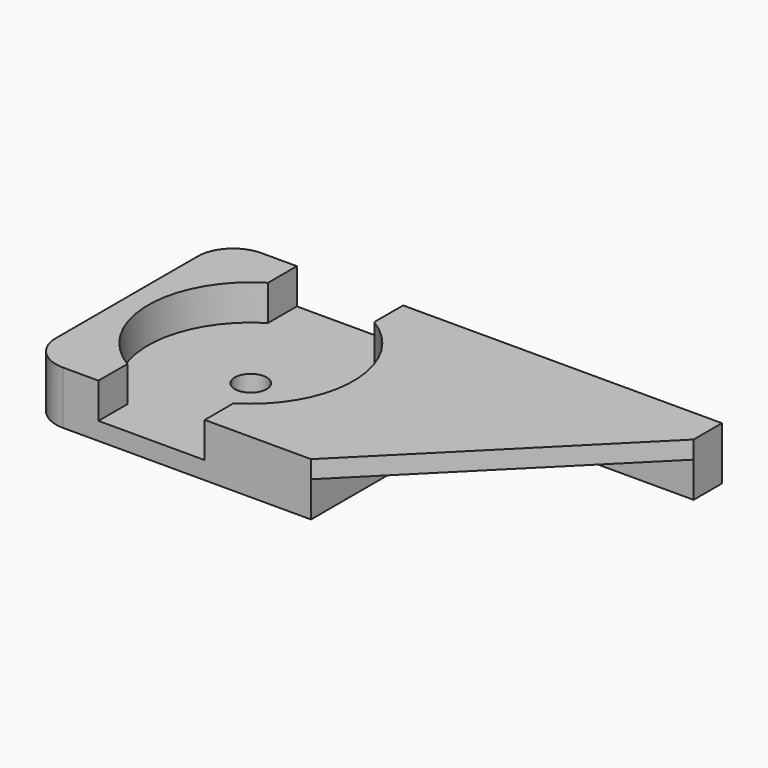
from build123d import *

# Parameters (mm, degrees)
SKETCH006_W     = 14
SKETCH006_H     = 14
PAD002_DEPTH    = 3
POCKET004_DEPTH = 2
SKETCH008_R     = 0.9
POCKET005_DEPTH = 1.001
PAD_DEPTH       = 3
SKETCH010_W     = 12
SKETCH010_H     = 12
POCKET_DEPTH    = 2
FILLET_R        = 2


with BuildPart() as obj1:
    # Sketch006 → Pad002 (new body)
    with BuildSketch(Plane.XY):
        Rectangle(SKETCH006_W, SKETCH006_H)
    extrude(amount=PAD002_DEPTH)

    # Sketch007 → Pocket004 (cut)
    with BuildSketch(Plane.XY.offset(3)):
        with BuildLine():
            Line((-3, 7), (-3, 4.963869))
            ThreePointArc((-3, 4.963869), (-5.8, 0), (-3, -4.963869))
            Line((-3, -7), (-3, -4.963869))
            Line((3, -7), (-3, -7))
            Line((3, -4.963869), (3, -7))
            ThreePointArc((3, -4.963869), (5.8, 0), (3, 4.963869))
            Line((3, 7), (3, 4.963869))
            Line((-3, 7), (3, 7))
        make_face()
    extrude(amount=-POCKET004_DEPTH, mode=Mode.SUBTRACT)

    # Sketch008 → Pocket005 (cut, through all)
    with BuildSketch(Plane.XY.offset(1)):
        Circle(SKETCH008_R)
    extrude(amount=-POCKET005_DEPTH, mode=Mode.SUBTRACT)


with BuildPart() as obj2:
    # Sketch → Pad (new body)
    with BuildSketch(Plane.XY):
        Polygon((-7, -7), (-7, 7), (7, 7), (7, 5), (-5, -7), align=None)
    extrude(amount=PAD_DEPTH)

    # Sketch010 → Pocket (cut)
    with BuildSketch(Plane(origin=(0, 0, 0), x_dir=(1, 0, 0), z_dir=(0, 0, -1))):
        with Locations((1, 1)):
            Rectangle(SKETCH010_W, SKETCH010_H)
    extrude(amount=-POCKET_DEPTH, mode=Mode.SUBTRACT)


with BuildPart() as obj2_1:
    # Clone placement: moved
    add(obj2.part.moved(Location((14, 0, 0))))

    # Fusion: union obj1
    add(obj1.part)

    # Fillet
    fillet_edges = [obj2_1.edges().sort_by_distance(p)[0] for p in [
        (-7, -7, 1.5),
        (-7, 7, 1.5),
    ]]
    fillet(fillet_edges, radius=FILLET_R)


solid = obj2_1.part
